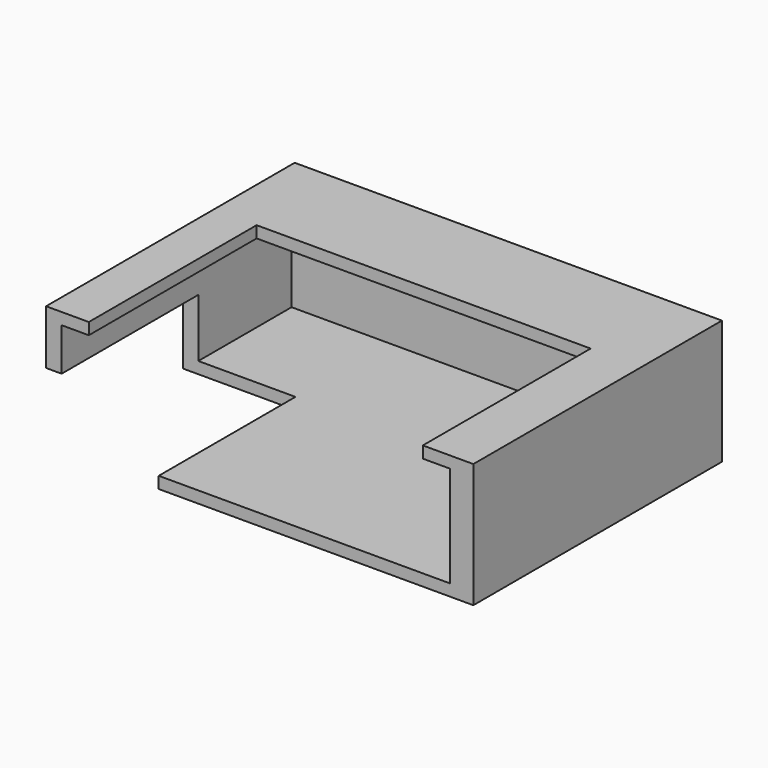
from build123d import *

# Parameters (mm, degrees)
BOX138_W     = 17
BOX138_H     = 24
BOX138_DEPTH = 11
BOX137_W     = 43
BOX137_H     = 27
BOX137_DEPTH = 11
BOX136_W     = 50
BOX136_H     = 37
BOX136_DEPTH = 13
BOX135_W     = 55
BOX135_H     = 40
BOX135_DEPTH = 16


with BuildPart() as cube060:
    # Box138 → Box138 (new body)
    with BuildSketch(Plane(origin=(337.5, 106, 176), x_dir=(1, 0, 0), z_dir=(0, 0, -1))):
        with Locations((8.5, 12)):
            Rectangle(BOX138_W, BOX138_H)
    extrude(amount=BOX138_DEPTH)


with BuildPart() as cube059:
    # Box137 → Box137 (new body)
    with BuildSketch(Plane(origin=(345.5, 111, 185), x_dir=(1, 0, 0), z_dir=(0, 0, -1))):
        with Locations((21.5, 13.5)):
            Rectangle(BOX137_W, BOX137_H)
    extrude(amount=BOX137_DEPTH)


with BuildPart() as cube058:
    # Box136 → Box136 (new body)
    with BuildSketch(Plane(origin=(342, 121, 181.5), x_dir=(1, 0, 0), z_dir=(0, 0, -1))):
        with Locations((25, 18.5)):
            Rectangle(BOX136_W, BOX136_H)
    extrude(amount=BOX136_DEPTH)


with BuildPart() as cut026:
    # Box135 → Box135 (new body)
    with BuildSketch(Plane(origin=(340, 124, 183), x_dir=(1, 0, 0), z_dir=(0, 0, -1))):
        with Locations((27.5, 20)):
            Rectangle(BOX135_W, BOX135_H)
    extrude(amount=BOX135_DEPTH)

    # Cut024: cut Cube058
    add(cube058.part, mode=Mode.SUBTRACT)

    # Cut025: cut Cube059
    add(cube059.part, mode=Mode.SUBTRACT)

    # Cut026: cut Cube060
    add(cube060.part, mode=Mode.SUBTRACT)


solid = cut026.part
